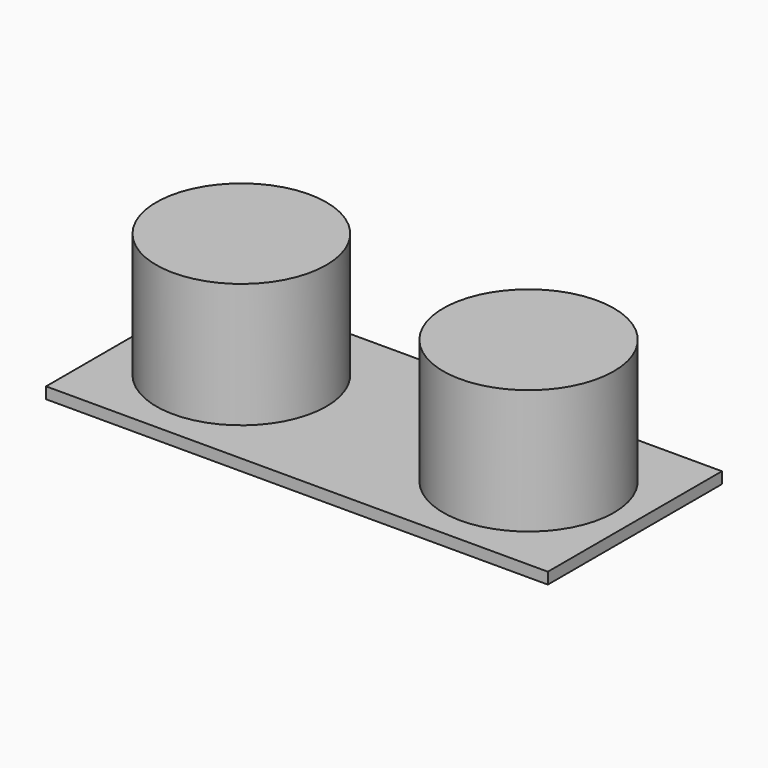
from build123d import *

# Parameters (mm, degrees)
F0_R     = 7.7
F0_R_2   = 7.725
F1_DEPTH = 12.3
F0_W     = 45.43
F0_H     = 19.7
F2_DEPTH = 1.03


with BuildPart() as f1:
    # F0 (on Top) → F1 (new body)
    with BuildSketch(Plane.XY):
        with Locations((-34.023199, 2.472709)):
            Circle(F0_R)
        with Locations((-8.018199, 2.472709)):
            Circle(F0_R_2)
    extrude(amount=F1_DEPTH)


with BuildPart() as f2:
    # F0 (on Top) → F2 (new body)
    with BuildSketch(Plane.XY):
        with Locations((-21.008199, 2.347709)):
            Rectangle(F0_W, F0_H)
        with Locations((-34.023199, 2.472709)):
            Circle(F0_R, mode=Mode.SUBTRACT)
        with Locations((-8.018199, 2.472709)):
            Circle(F0_R_2, mode=Mode.SUBTRACT)
    extrude(amount=F2_DEPTH)


solid = Compound([f1.part, f2.part])
